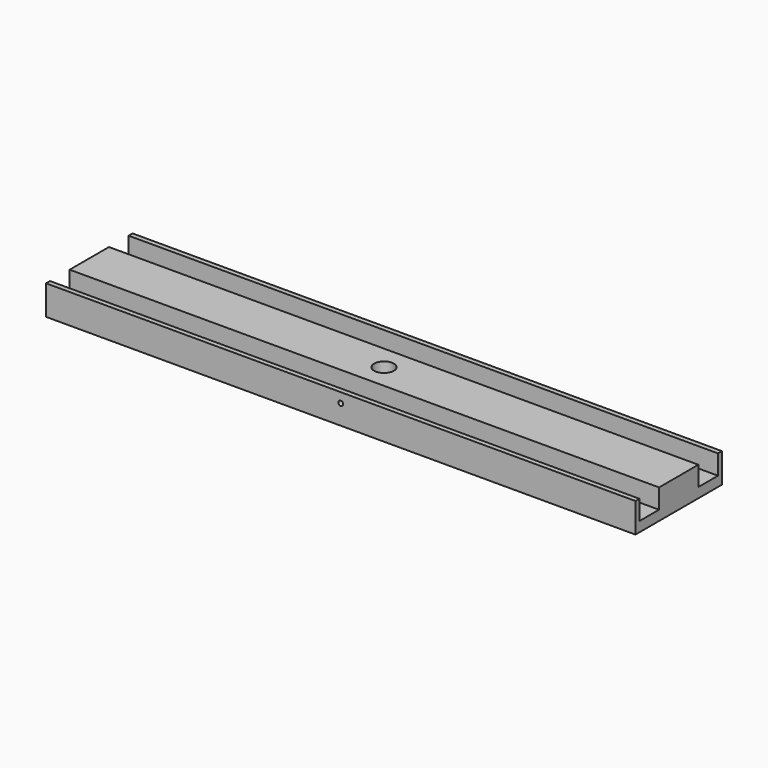
from build123d import *

# Parameters (mm, degrees)
F1_DEPTH      = 381
F1_DEPTH_BACK = 381
F3_D          = 6.35
F3_DEPTH      = 6.35
F5_D          = 25.4


with BuildPart() as f1:
    # F0 (on Right) → F1 (new body, two sides)
    with BuildSketch(Plane.YZ) as f1_sk:
        Polygon((-69.85, 38.227), (-69.85, 0), (69.85, 0), (69.85, 38.227), (63.5, 38.227), (63.5, 12.827), (31.75, 12.827), (31.75, 38.227), (-31.75, 38.227), (-31.75, 12.827), (-63.5, 12.827), (-63.5, 38.227), align=None)
    extrude(amount=F1_DEPTH)
    extrude(f1_sk.sketch, amount=-F1_DEPTH_BACK)

    # F3
    with Locations(Plane.XZ.offset(69.85)):
        with Locations((0, 25.527)):
            Hole(F3_D / 2, depth=F3_DEPTH)

    # F5 (through all)
    with Locations(Plane.XY.offset(38.227)):
        with Locations((0, 0)):
            Hole(F5_D / 2)


solid = f1.part
